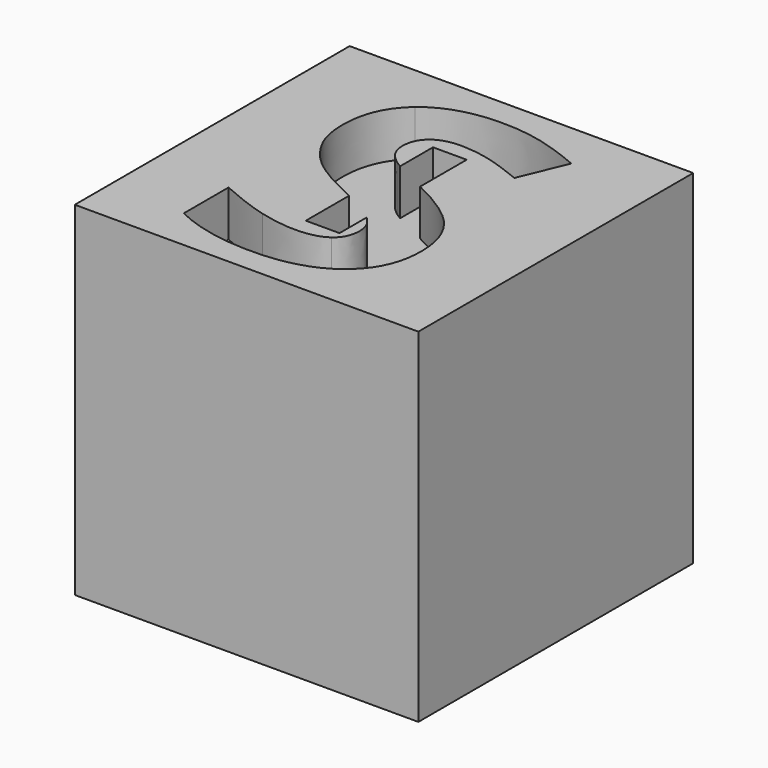
from build123d import *

# Parameters (mm, degrees)
F0_W     = 38.1
F0_H     = 38.1
F1_DEPTH = 38.1
F3_DEPTH = 5.08


with BuildPart() as f1:
    # F0 (on Top) → F1 (new body)
    with BuildSketch(Plane.XY):
        with Locations((-47.6596392691, 24.3147276342)):
            Rectangle(F0_W, F0_H)
    extrude(amount=F1_DEPTH)

    # F2 (on face) → F3 (cut)
    with BuildSketch(Plane.XY.offset(38.1)):
        with BuildLine():
            add(Edge.make_bspline(
                [(-37.8170014653, 17.1833799779), (-37.8170014653, 12.9183517661), (-40.8865815434, 10.4619986845)],
                knots=[0, 0, 0, 1, 1, 1], degree=2))
            add(Edge.make_bspline(
                [(-39.4534218212, 22.3820290665), (-37.8170014653, 20.2632953425), (-37.8170014653, 17.1833799779)],
                knots=[0, 0, 0, 1, 1, 1], degree=2))
            add(Edge.make_bspline(
                [(-45.481512099, 26.6040948198), (-41.0852172817, 24.494774768), (-39.4534218212, 22.3820290665)],
                knots=[0.002826227, 0.002826227, 0.002826227, 1, 1, 1], degree=2))
            Line((-45.481512099, 26.6040948198), (-45.481512099, 19.1818112997))
            add(Edge.make_bspline(
                [(-44.8794472118, 18.5062966446), (-45.1254422432, 18.8506896885), (-45.481512099, 19.1818112997)],
                knots=[0, 0, 0, 0.4760294402, 0.4760294402, 0.4760294402], degree=2))
            add(Edge.make_bspline(
                [(-44.3626828889, 16.8595410022), (-44.3626828889, 17.7828265925), (-44.8794472118, 18.5062966446)],
                knots=[0, 0, 0, 1, 1, 1], degree=2))
            add(Edge.make_bspline(
                [(-45.5374604497, 14.3618467748), (-44.3626828889, 15.1990049779), (-44.3626828889, 16.8595410022)],
                knots=[0, 0, 0, 1, 1, 1], degree=2))
            add(Edge.make_bspline(
                [(-48.9033187396, 13.5246885717), (-46.7122380104, 13.5246885717), (-45.5374604497, 14.3618467748)],
                knots=[0, 0, 0, 1, 1, 1], degree=2))
            add(Edge.make_bspline(
                [(-52.9444157448, 14.1034646134), (-50.7361095382, 13.5246885717), (-48.9033187396, 13.5246885717)],
                knots=[0, 0, 0, 1, 1, 1], degree=2))
            add(Edge.make_bspline(
                [(-58.3359901806, 16.1085101863), (-55.1527219514, 14.682240655), (-52.9444157448, 14.1034646134)],
                knots=[0, 0, 0, 1, 1, 1], degree=2))
            Line((-58.3359901806, 16.1085101863), (-58.3359901806, 9.9073383113))
            add(Edge.make_bspline(
                [(-49.4200830625, 8.0056456029), (-54.4637028542, 8.0056456029), (-58.3359901806, 9.9073383113)],
                knots=[0, 0, 0, 1, 1, 1], degree=2))
            add(Edge.make_bspline(
                [(-40.8865815434, 10.4619986845), (-43.9561616215, 8.0056456029), (-49.4200830625, 8.0056456029)],
                knots=[0, 0, 0, 1, 1, 1], degree=2))
        make_face()
        with BuildLine():
            Line((-45.481512099, 19.1818112997), (-45.481512099, 26.6040948198))
            add(Edge.make_bspline(
                [(-45.5064545903, 26.6160514189), (-45.4939722412, 26.6100731331), (-45.481512099, 26.6040948198)],
                knots=[0, 0, 0, 0.002826227, 0.002826227, 0.002826227], degree=2))
            add(Edge.make_bspline(
                [(-49.2204053281, 28.5023716904), (-48.1048914411, 27.8562144613), (-45.5064545903, 26.6160514189)],
                knots=[0.220824038, 0.220824038, 0.220824038, 1, 1, 1], degree=2))
            Line((-49.2204053281, 28.5023716904), (-49.2204053281, 21.4172590728))
            add(Edge.make_bspline(
                [(-46.3987343212, 19.8946701255), (-47.1795261841, 20.4125149006), (-49.2204053281, 21.4172590728)],
                knots=[0, 0, 0, 0.7788270486, 0.7788270486, 0.7788270486], degree=2))
            add(Edge.make_bspline(
                [(-45.481512099, 19.1818112997), (-45.8734418956, 19.5462803037), (-46.3987343212, 19.8946701255)],
                knots=[0.4760294402, 0.4760294402, 0.4760294402, 1, 1, 1], degree=2))
        make_face()
        with BuildLine():
            add(Edge.make_bspline(
                [(-45.5064545903, 26.6160514189), (-45.4939722412, 26.6100731331), (-45.481512099, 26.6040948198)],
                knots=[0, 0, 0, 0.002826227, 0.002826227, 0.002826227], degree=2))
            Line((-45.481512099, 26.6040948198), (-45.481512099, 33.0542458634))
            Line((-45.481512099, 33.0542458634), (-49.2204053281, 33.0542458634))
            Line((-49.2204053281, 33.0542458634), (-49.2204053281, 28.5023716904))
            add(Edge.make_bspline(
                [(-49.2204053281, 28.5023716904), (-48.1048914411, 27.8562144613), (-45.5064545903, 26.6160514189)],
                knots=[0.220824038, 0.220824038, 0.220824038, 1, 1, 1], degree=2))
        make_face()
        with BuildLine():
            Line((-45.481512099, 15.4247276342), (-45.481512099, 19.1818112997))
            add(Edge.make_bspline(
                [(-45.481512099, 19.1818112997), (-45.8734418956, 19.5462803037), (-46.3987343212, 19.8946701255)],
                knots=[0.4760294402, 0.4760294402, 0.4760294402, 1, 1, 1], degree=2))
            add(Edge.make_bspline(
                [(-46.3987343212, 19.8946701255), (-47.1795261841, 20.4125149006), (-49.2204053281, 21.4172590728)],
                knots=[0, 0, 0, 0.7788270486, 0.7788270486, 0.7788270486], degree=2))
            Line((-49.2204053281, 21.4172590728), (-49.2204053281, 15.4247276342))
            Line((-49.2204053281, 15.4247276342), (-45.481512099, 15.4247276342))
        make_face()
        with BuildLine():
            Line((-49.2204053281, 21.4172590728), (-49.2204053281, 28.5023716904))
            add(Edge.make_bspline(
                [(-49.7335867518, 28.82091253), (-49.5365499386, 28.6854972685), (-49.2204053281, 28.5023716904)],
                knots=[0, 0, 0, 0.220824038, 0.220824038, 0.220824038], degree=2))
            add(Edge.make_bspline(
                [(-51.0358328455, 30.0921527644), (-50.6258664827, 29.4341395266), (-49.7335867518, 28.82091253)],
                knots=[0, 0, 0, 1, 1, 1], degree=2))
            add(Edge.make_bspline(
                [(-51.4457992083, 31.6321104467), (-51.4457992083, 30.7501660022), (-51.0358328455, 30.0921527644)],
                knots=[0, 0, 0, 1, 1, 1], degree=2))
            add(Edge.make_bspline(
                [(-50.4329411354, 33.9334342314), (-51.4457992083, 33.051489787), (-51.4457992083, 31.6321104467)],
                knots=[0, 0, 0, 1, 1, 1], degree=2))
            add(Edge.make_bspline(
                [(-47.5252805452, 34.8153786759), (-49.4200830625, 34.8153786759), (-50.4329411354, 33.9334342314)],
                knots=[0, 0, 0, 1, 1, 1], degree=2))
            add(Edge.make_bspline(
                [(-44.2868907882, 34.405412313), (-45.9336464306, 34.8153786759), (-47.5252805452, 34.8153786759)],
                knots=[0, 0, 0, 1, 1, 1], degree=2))
            add(Edge.make_bspline(
                [(-40.11832525, 32.9619173043), (-42.6401351458, 33.9954459502), (-44.2868907882, 34.405412313)],
                knots=[0, 0, 0, 1, 1, 1], degree=2))
            Line((-40.11832525, 32.9619173043), (-37.9685856667, 38.1571212974))
            add(Edge.make_bspline(
                [(-42.6297998594, 39.7900965578), (-40.4008230799, 39.2113205161), (-37.9685856667, 38.1571212974)],
                knots=[0, 0, 0, 1, 1, 1], degree=2))
            add(Edge.make_bspline(
                [(-47.311684625, 40.3688725995), (-44.8587766389, 40.3688725995), (-42.6297998594, 39.7900965578)],
                knots=[0, 0, 0, 1, 1, 1], degree=2))
            add(Edge.make_bspline(
                [(-55.1389415695, 37.9814214276), (-52.3070730799, 40.3688725995), (-47.311684625, 40.3688725995)],
                knots=[0, 0, 0, 1, 1, 1], degree=2))
            add(Edge.make_bspline(
                [(-57.970810059, 31.4116243356), (-57.970810059, 35.5939702557), (-55.1389415695, 37.9814214276)],
                knots=[0, 0, 0, 1, 1, 1], degree=2))
            add(Edge.make_bspline(
                [(-57.1095361875, 27.5393370092), (-57.970810059, 29.1998730335), (-57.970810059, 31.4116243356)],
                knots=[0, 0, 0, 1, 1, 1], degree=2))
            add(Edge.make_bspline(
                [(-54.8047673073, 24.6316764189), (-56.248262316, 25.8788009849), (-57.1095361875, 27.5393370092)],
                knots=[0, 0, 0, 1, 1, 1], degree=2))
            add(Edge.make_bspline(
                [(-50.4811724722, 22.0271842314), (-53.3612722986, 23.3845518529), (-54.8047673073, 24.6316764189)],
                knots=[0, 0, 0, 1, 1, 1], degree=2))
            add(Edge.make_bspline(
                [(-49.2204053281, 21.4172590728), (-49.799978501, 21.7025884465), (-50.4811724722, 22.0271842314)],
                knots=[0.7788270486, 0.7788270486, 0.7788270486, 1, 1, 1], degree=2))
        make_face()
    extrude(amount=-F3_DEPTH, mode=Mode.SUBTRACT)


solid = f1.part
